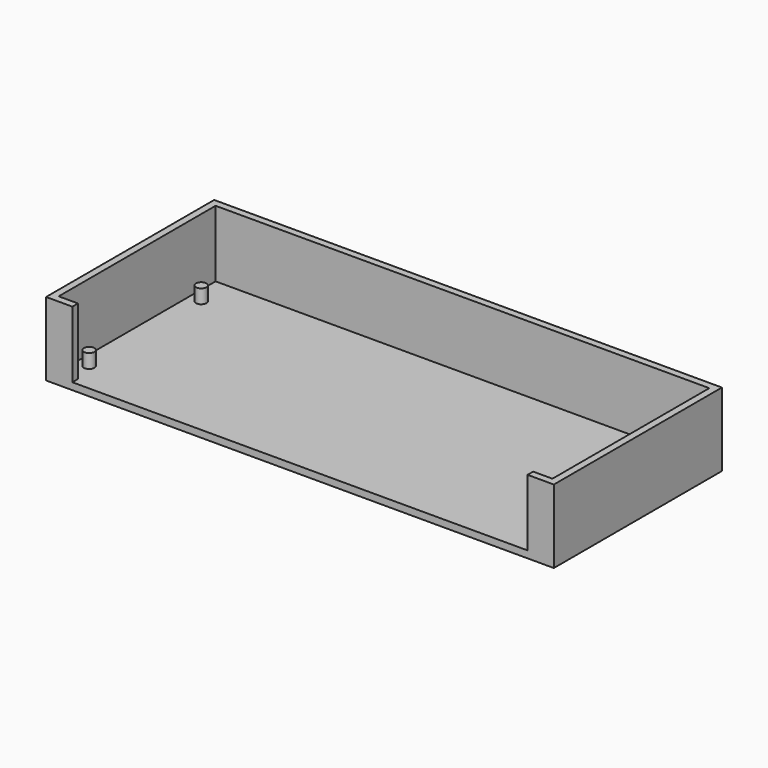
from build123d import *

# Parameters (mm, degrees)
SKETCH_W     = 145
SKETCH_H     = 60
PAD_DEPTH    = 21
THICKNESS_T  = -2
SKETCH001_W  = 130
SKETCH001_H  = 19
POCKET_DEPTH = 2
SKETCH002_R  = 1.5
PAD001_DEPTH = 4


with BuildPart() as part:
    # Sketch → Pad (new body)
    with BuildSketch(Plane.XY):
        Rectangle(SKETCH_W, SKETCH_H)
    extrude(amount=PAD_DEPTH)

    # Thickness
    thickness_openings = [part.faces().sort_by_distance(p)[0] for p in [
        (0, 0, 21),
    ]]
    offset(amount=THICKNESS_T, openings=thickness_openings)

    # Sketch001 (on Face3 of Thickness) → Pocket (cut)
    with BuildSketch(Plane.XZ.offset(30)):
        with Locations((0, 11.5)):
            Rectangle(SKETCH001_W, SKETCH001_H)
    extrude(amount=-POCKET_DEPTH, mode=Mode.SUBTRACT)

    # Sketch002 (on Face15 of Pocket) → Pad001 (join)
    with BuildSketch(Plane.XY.offset(2)):
        with Locations((-67, 18.5)):
            Circle(SKETCH002_R)
        with Locations((-67, -21.5)):
            Circle(SKETCH002_R)
        with Locations((65.5, 18.5)):
            Circle(SKETCH002_R)
        with Locations((65.5, -21.5)):
            Circle(SKETCH002_R)
    extrude(amount=PAD001_DEPTH)


solid = part.part
